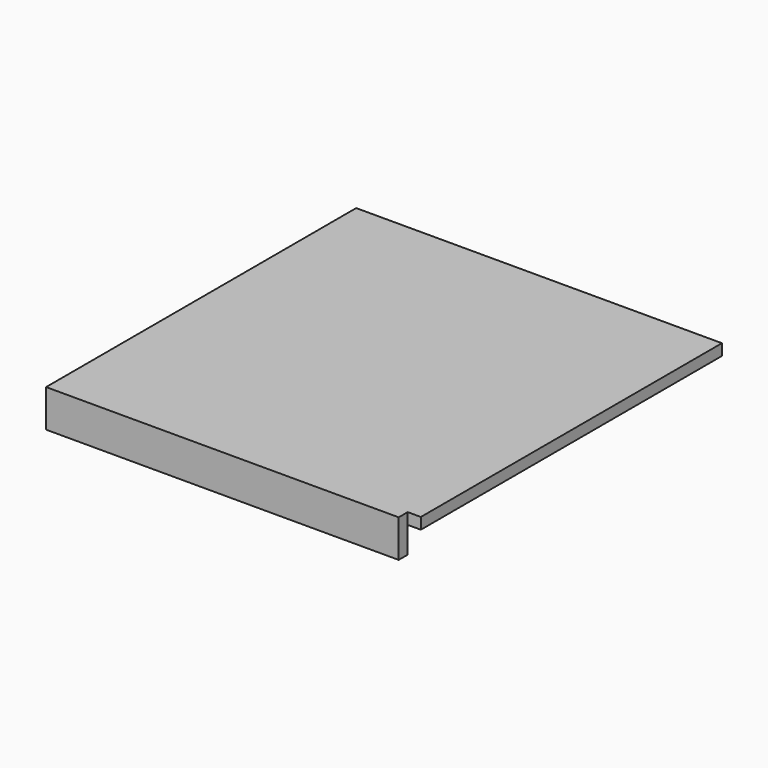
from build123d import *

# Parameters (mm, degrees)
F0_W     = 585
F0_H     = 620
F1_DEPTH = 18
F2_W     = 585
F2_H     = 18
F3_DEPTH = 42
F4_W     = 21
F4_H     = 18
F5_DEPTH = 60


with BuildPart() as f1:
    # F0 (on Top) → F1 (new body)
    with BuildSketch(Plane.XY):
        Rectangle(F0_W, F0_H)
    extrude(amount=F1_DEPTH)

    # F2 (on face) → F3 (join)
    with BuildSketch(Plane(origin=(0, 0, 0), x_dir=(1, 0, 0), z_dir=(0, 0, -1))):
        with Locations((0, 301)):
            Rectangle(F2_W, F2_H)
    extrude(amount=F3_DEPTH)

    # F4 (on face) → F5 (cut)
    with BuildSketch(Plane.XY.offset(18)):
        with Locations((282, -301)):
            Rectangle(F4_W, F4_H)
    extrude(amount=-F5_DEPTH, mode=Mode.SUBTRACT)


solid = f1.part
